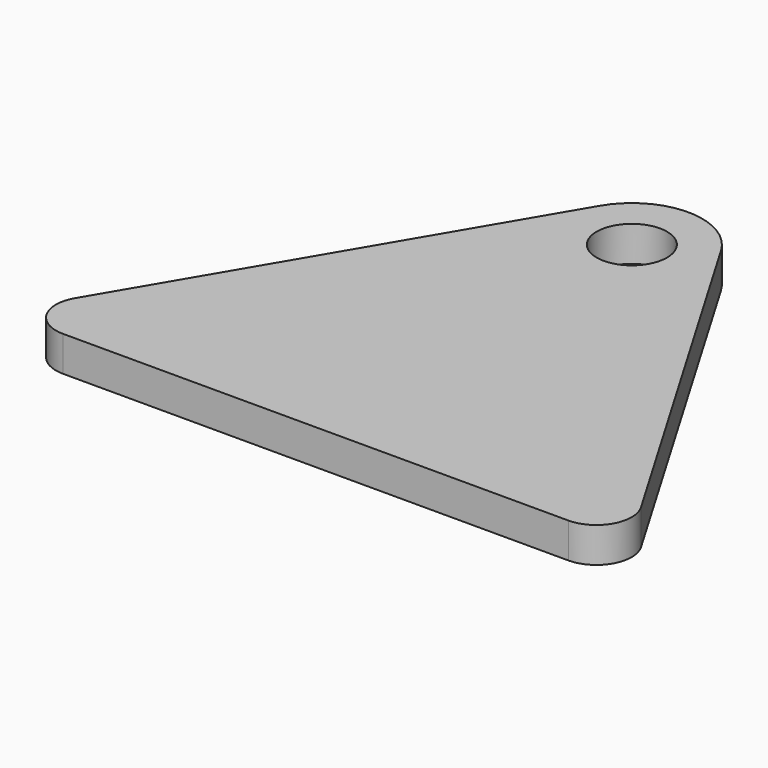
from build123d import *

# Parameters (mm, degrees)
F0_R     = 5
F1_DEPTH = 5


with BuildPart() as f1:
    # F0 (on Top) → F1 (new body)
    with BuildSketch(Plane.XY):
        with BuildLine():
            Line((-35.91768, -56.190782), (0, -56.190782))
            Line((0, -56.190782), (35.91768, -56.190782))
            ThreePointArc((35.91768, -56.190782), (40.258006, -53.673033), (40.227191, -48.65541))
            Line((40.227191, -48.65541), (8.619023, 5.070743))
            ThreePointArc((8.619023, 5.070743), (0, 10), (-8.619023, 5.070743))
            Line((-8.619023, 5.070743), (-40.227191, -48.65541))
            ThreePointArc((-40.227191, -48.65541), (-40.258006, -53.673033), (-35.91768, -56.190782))
        make_face()
        Circle(F0_R, mode=Mode.SUBTRACT)
    extrude(amount=F1_DEPTH)


solid = f1.part
